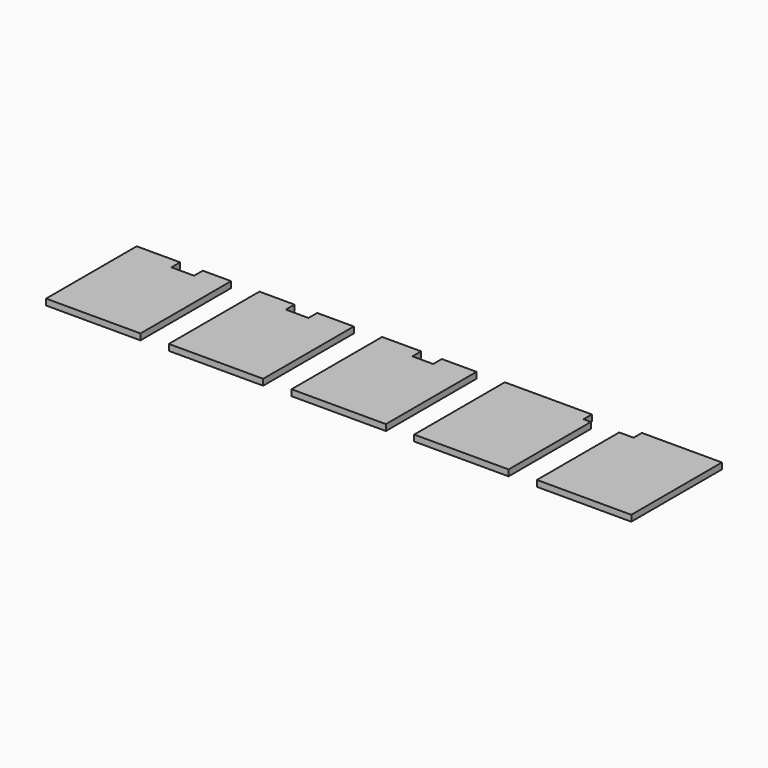
from build123d import *

# Parameters (mm, degrees)
F1_DEPTH = 65


with BuildPart() as f1:
    # F0 (on Top) → F1 (new body)
    with BuildSketch(Plane.XY):
        Polygon((-109.269322, 609.110825), (-569.269322, 609.110825), (-569.269322, -590.889175), (430.730678, -590.889175), (430.730678, 609.110825), (130.730678, 609.110825), (130.730678, 494.110825), (-109.269322, 494.110825), align=None)
        Polygon((1102.730678, 609.110825), (730.730678, 609.110825), (730.730678, -590.889175), (1730.730678, -590.889175), (1730.730678, 609.110825), (1342.730678, 609.110825), (1342.730678, 494.110825), (1102.730678, 494.110825), align=None)
        Polygon((2443.730678, 609.110825), (2030.730678, 609.110825), (2030.730678, -590.889175), (3030.730678, -590.889175), (3030.730678, 609.110825), (2663.730678, 609.110825), (2663.730678, 494.110825), (2443.730678, 494.110825), align=None)
        Polygon((4252.730678, 609.110825), (3330.730678, 609.110825), (3330.730678, -590.889175), (4330.730678, -590.889175), (4330.730678, 499.110825), (4252.730678, 499.110825), align=None)
        Polygon((5630.730678, 609.110825), (4782.730678, 609.110825), (4782.730678, 499.110825), (4630.730678, 499.110825), (4630.730678, -590.889175), (5630.730678, -590.889175), align=None)
    extrude(amount=F1_DEPTH)


solid = f1.part
